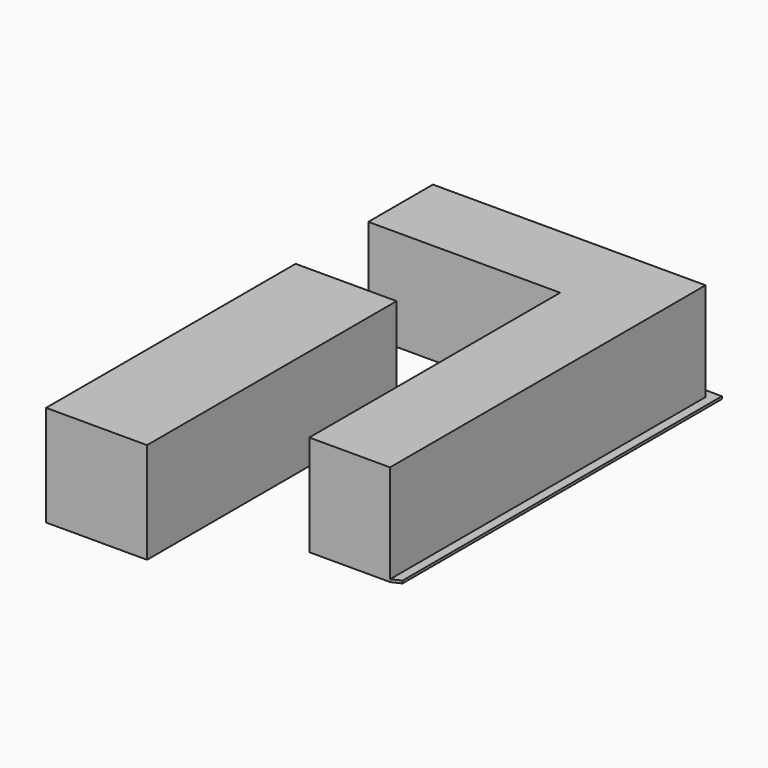
from build123d import *

# Parameters (mm, degrees)
F1_DEPTH = 1000
F2_DEPTH = 1000
F3_DEPTH = 25


with BuildPart() as f1:
    # F0 (on Top) → F1 (new body)
    with BuildSketch(Plane.XY):
        Polygon((-722.319901, -1572.706527), (-1722.319901, -1572.706527), (-1722.319901, -3778.548717), (-1722.319901, -4661.734821), (-722.319901, -4661.734821), (-722.319901, -3778.548717), align=None)
    extrude(amount=F1_DEPTH)


with BuildPart() as f2:
    # F0 (on Top) → F2 (new body)
    with BuildSketch(Plane.XY):
        Polygon((977.680099, 127.293473), (-1722.319901, 127.293473), (-1722.319901, -672.706527), (177.680099, -672.706527), (177.680099, -3778.548717), (977.680099, -3778.548717), align=None)
    extrude(amount=F2_DEPTH)

    # F0 (on Top) → F3 (join)
    with BuildSketch(Plane.XY):
        Polygon((-1722.319901, 217.293473), (-1722.319901, 127.293473), (977.680099, 127.293473), (1067.680099, -65.71215), (1067.680099, 217.293473), align=None)
        Polygon((1067.680099, -65.71215), (977.680099, 127.293473), (977.680099, -3778.548717), (1067.680099, -3736.581028), align=None)
    extrude(amount=F3_DEPTH)


solid = Compound([f1.part, f2.part])
